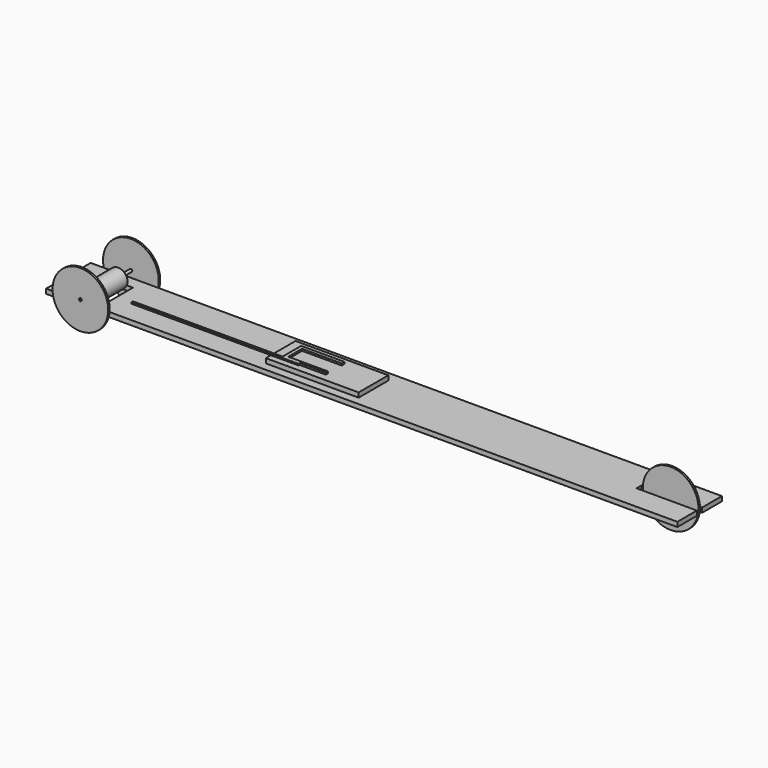
from build123d import *

# Parameters (mm, degrees)
F0_W      = 680
F0_H      = 5
F1_DEPTH  = 30
F2_W      = 7
F2_H      = 5
F3_DEPTH  = 65
F4_W      = 26
F4_H      = 34
F5_DEPTH  = 25
F6_R      = 10
F7_DEPTH  = 15
F8_R      = 1.5
F9_DEPTH  = 34
F11_R     = 30
F11_R_2   = 1.5
F10_R     = 30
F10_R_2   = 1.5
F12_DEPTH = 2
F13_W     = 100
F13_H     = 40
F14_DEPTH = 5
F16_DEPTH = 2
F17_W     = 18.6858947465
F17_H     = 1.5
F17_W_2   = 161.3141052535
F18_DEPTH = 2
F19_R     = 30
F20_DEPTH = 2


with BuildPart() as f1:
    # F0 (on Front) → F1 (new body, symmetric)
    with BuildSketch(Plane.XZ):
        with Locations((153.4013146162, 4.0556881274)):
            Rectangle(F0_W, F0_H)
    extrude(amount=F1_DEPTH, both=True)

    # F2 (on face) → F3 (cut)
    with BuildSketch(Plane.YZ.offset(493.4013146162)):
        with Locations((-0.2302633282, 4.0556881274)):
            Rectangle(F2_W, F2_H)
    extrude(amount=-F3_DEPTH, mode=Mode.SUBTRACT)

    # F4 (on face) → F5 (cut)
    with BuildSketch(Plane.XY.offset(6.5556881274)):
        with Locations((-143.5986853838, 0)):
            Rectangle(F4_W, F4_H)
    extrude(amount=-F5_DEPTH, mode=Mode.SUBTRACT)

    # F13 (on face) → F14 (join)
    with BuildSketch(Plane.XY.offset(6.5556881274)):
        with Locations((92.8316880018, -0.9144100054)):
            Rectangle(F13_W, F13_H)
    extrude(amount=F14_DEPTH)

    # F15 (on face) → F16 (join)
    with BuildSketch(Plane.XY.offset(11.5556881274)):
        Polygon((101.1469349155, 12.0855899946), (54.497448366, 12.0855899946), (54.497448366, -12.9144100054), (101.1469349155, -12.9144100054), (101.1469349155, -10.1053658873), (58.3766587079, -10.1053658873), (58.3766587079, 8.4188915789), (101.1469349155, 8.4188915789), align=None)
    extrude(amount=F16_DEPTH)

    # F17 (on face) → F18 (join)
    with BuildSketch(Plane.XZ.offset(12.9144100054)):
        with Locations((63.8403957392, 12.8056881274)):
            Rectangle(F17_W, F17_H)
        with Locations((-26.1596042608, 12.8056881274)):
            Rectangle(F17_W_2, F17_H)
    extrude(amount=F18_DEPTH)


with BuildPart() as f7:
    # F6 (on Front) → F7 (new body, symmetric)
    with BuildSketch(Plane.XZ):
        with Locations((-144.8986679316, 11.7167849094)):
            Circle(F6_R)
    extrude(amount=F7_DEPTH, both=True)

    # F8 (on Front) → F9 (join, symmetric)
    with BuildSketch(Plane.XZ):
        with Locations((-144.8494642973, 12.1505782008)):
            Circle(F8_R)
    extrude(amount=F9_DEPTH, both=True)

    # F11 (on face) + F10 (on face) → F12 (join)
    with BuildSketch(Plane(origin=(0, 34, 0), x_dir=(-1, 0, 0), z_dir=(0, 1, 0))):
        with Locations((144.8494642973, 12.1505782008)):
            Circle(F11_R)
        with Locations((144.8494642973, 12.1505782008)):
            Circle(F11_R_2, mode=Mode.SUBTRACT)
    with BuildSketch(Plane.XZ.offset(34)):
        with Locations((-144.8494642973, 12.1505782008)):
            Circle(F10_R)
        with Locations((-144.8494642973, 12.1505782008)):
            Circle(F10_R_2, mode=Mode.SUBTRACT)
    extrude(amount=-F12_DEPTH, dir=(0, 1, 0))


with BuildPart() as f20:
    # F19 (on Front) → F20 (new body)
    with BuildSketch(Plane.XZ):
        with Locations((463.7294891083, 7.7148822207)):
            Circle(F19_R)
    extrude(amount=F20_DEPTH)


solid = Compound([f1.part, f7.part, f20.part])
